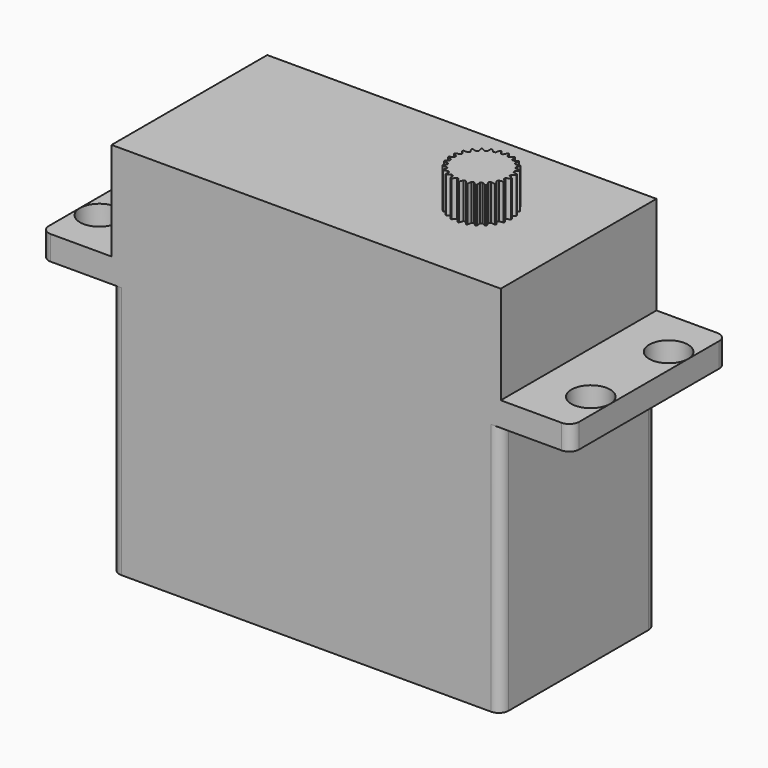
from build123d import *

# Parameters (mm, degrees)
F1_DEPTH  = 26
F3_DEPTH  = 2.5
F4_D      = 3.99
F4_DEPTH  = 5
F5_W      = 40
F5_H      = 20
F6_DEPTH  = 10.1
F7_R      = 2.5
F8_DEPTH  = 6
F10_DEPTH = 2
F13_DEPTH = 3.7


with BuildPart() as f1:
    # F0 (on Top) → F1 (new body)
    with BuildSketch(Plane.XY):
        with BuildLine():
            Line((-19, -10), (19, -10))
            ThreePointArc((19, -10), (19.707107, -9.707107), (20, -9))
            Line((20, -9), (20, 9))
            ThreePointArc((20, 9), (19.707107, 9.707107), (19, 10))
            Line((19, 10), (-19, 10))
            ThreePointArc((-19, 10), (-19.707107, 9.707107), (-20, 9))
            Line((-20, 9), (-20, -9))
            ThreePointArc((-20, -9), (-19.707107, -9.707107), (-19, -10))
        make_face()
    extrude(amount=F1_DEPTH)

    # F2 (on face) → F3 (join)
    with BuildSketch(Plane.XY.offset(26)):
        with BuildLine():
            Line((-26.25, -10), (26.25, -10))
            ThreePointArc((26.25, -10), (26.957107, -9.707107), (27.25, -9))
            Line((27.25, -9), (27.25, 9))
            ThreePointArc((27.25, 9), (26.957107, 9.707107), (26.25, 10))
            Line((26.25, 10), (-26.25, 10))
            ThreePointArc((-26.25, 10), (-26.957107, 9.707107), (-27.25, 9))
            Line((-27.25, 9), (-27.25, -9))
            ThreePointArc((-27.25, -9), (-26.957107, -9.707107), (-26.25, -10))
        make_face()
    extrude(amount=F3_DEPTH)

    # F4
    with Locations(Plane(origin=(0, 0, 26), x_dir=(1, 0, 0), z_dir=(0, 0, -1))):
        with Locations((-25.25, 5), (-25.25, -5), (25.25, 5), (25.25, -5)):
            Hole(F4_D / 2, depth=F4_DEPTH)

    # F5 (on face) → F6 (join)
    with BuildSketch(Plane.XY.offset(28.5)):
        Rectangle(F5_W, F5_H)
    extrude(amount=F6_DEPTH)


with BuildPart() as f8:
    # F7 (on face) → F8 (new body)
    with BuildSketch(Plane.XY.offset(38.6)):
        with Locations((10, 0)):
            Circle(F7_R)
    extrude(amount=F8_DEPTH)

    # F9 (on face) → F10 (join)
    with BuildSketch(Plane.XY.offset(44.6)):
        with BuildLine():
            ThreePointArc((-5.588466, 1.583393), (-6.591489, 1.114912), (-7, 0.086004))
            Line((-7, 0.086004), (-7, -0.085642))
            ThreePointArc((-7, -0.085642), (-6.591358, -1.114689), (-5.588083, -1.583054))
            Line((-5.588083, -1.583054), (4.973742, -2.204338))
            ThreePointArc((4.973742, -2.204338), (6.918625, -3.07757), (7.792354, -5.02223))
            Line((7.792354, -5.02223), (8.416607, -15.588466))
            ThreePointArc((8.416607, -15.588466), (8.885088, -16.591489), (9.913996, -17))
            Line((9.913996, -17), (10.085642, -17))
            ThreePointArc((10.085642, -17), (11.114689, -16.591358), (11.583054, -15.588083))
            Line((11.583054, -15.588083), (12.204338, -5.026258))
            ThreePointArc((12.204338, -5.026258), (13.07757, -3.081375), (15.02223, -2.207646))
            Line((15.02223, -2.207646), (25.588466, -1.583393))
            ThreePointArc((25.588466, -1.583393), (26.591489, -1.114912), (27, -0.086004))
            Line((27, -0.086004), (27, 0.085642))
            ThreePointArc((27, 0.085642), (26.591358, 1.114689), (25.588083, 1.583054))
            Line((25.588083, 1.583054), (15.026258, 2.204338))
            ThreePointArc((15.026258, 2.204338), (13.081375, 3.07757), (12.207646, 5.02223))
            Line((12.207646, 5.02223), (11.583393, 15.588466))
            ThreePointArc((11.583393, 15.588466), (11.114912, 16.591489), (10.086004, 17))
            Line((10.086004, 17), (9.914358, 17))
            ThreePointArc((9.914358, 17), (8.885311, 16.591358), (8.416946, 15.588083))
            Line((8.416946, 15.588083), (7.795662, 5.026258))
            ThreePointArc((7.795662, 5.026258), (6.92243, 3.081375), (4.97777, 2.207646))
            Line((4.97777, 2.207646), (-5.588466, 1.583393))
        make_face()
    extrude(amount=F10_DEPTH)


with BuildPart() as f13:
    # F12 (on face) → F13 (new body)
    with BuildSketch(Plane.XY.offset(38.6)):
        with BuildLine():
            Line((10.206556, 3.169527), (9.994776, 2.776655))
            ThreePointArc((9.994776, 2.776655), (9.890409, 2.774673), (9.786192, 2.768733))
            Line((9.786192, 2.768733), (9.54622, 3.144554))
            ThreePointArc((9.54622, 3.144554), (9.482152, 3.134663), (9.418302, 3.123456))
            Line((9.418302, 3.123456), (9.310879, 2.690258))
            ThreePointArc((9.310879, 2.690258), (9.210283, 2.662384), (9.110818, 2.630712))
            Line((9.110818, 2.630712), (8.784922, 2.935048))
            ThreePointArc((8.784922, 2.935048), (8.725327, 2.909535), (8.66627, 2.882801))
            Line((8.66627, 2.882801), (8.669954, 2.436498))
            ThreePointArc((8.669954, 2.436498), (8.57945, 2.384482), (8.490986, 2.32907))
            Line((8.490986, 2.32907), (8.099644, 2.542797))
            ThreePointArc((8.099644, 2.542797), (8.048266, 2.503265), (7.997713, 2.462683))
            Line((7.997713, 2.462683), (8.112272, 2.031318))
            ThreePointArc((8.112272, 2.031318), (8.037547, 1.95843), (7.965643, 1.882758))
            Line((7.965643, 1.882758), (7.533443, 1.992447))
            ThreePointArc((7.533443, 1.992447), (7.493511, 1.94138), (7.454638, 1.889502))
            Line((7.454638, 1.889502), (7.672874, 1.500178))
            ThreePointArc((7.672874, 1.500178), (7.618624, 1.410996), (7.567798, 1.31982))
            Line((7.567798, 1.31982), (7.121898, 1.31858))
            ThreePointArc((7.121898, 1.31858), (7.09592, 1.259186), (7.07117, 1.19927))
            Line((7.07117, 1.19927), (7.379371, 0.876451))
            ThreePointArc((7.379371, 0.876451), (7.349004, 0.77658), (7.322449, 0.675628))
            Line((7.322449, 0.675628), (6.890866, 0.563536))
            ThreePointArc((6.890866, 0.563536), (6.880475, 0.499547), (6.871403, 0.435359))
            Line((6.871403, 0.435359), (7.250203, 0.199328))
            ThreePointArc((7.250203, 0.199328), (7.245627, 0.095043), (7.245012, -0.009342))
            Line((7.245012, -0.009342), (6.854864, -0.225243))
            ThreePointArc((6.854864, -0.225243), (6.860713, -0.289805), (6.867889, -0.354233))
            Line((6.867889, -0.354233), (7.293486, -0.488644))
            ThreePointArc((7.293486, -0.488644), (7.314989, -0.590792), (7.340353, -0.69205))
            Line((7.340353, -0.69205), (7.016155, -0.998193))
            ThreePointArc((7.016155, -0.998193), (7.037875, -1.059272), (7.060848, -1.119892))
            Line((7.060848, -1.119892), (7.506502, -1.144239))
            ThreePointArc((7.506502, -1.144239), (7.552732, -1.237829), (7.602481, -1.329598))
            Line((7.602481, -1.329598), (7.364603, -1.706749))
            ThreePointArc((7.364603, -1.706749), (7.400831, -1.760507), (7.438158, -1.813509))
            Line((7.438158, -1.813509), (7.875865, -1.726261))
            ThreePointArc((7.875865, -1.726261), (7.943918, -1.805415), (8.014926, -1.881929))
            Line((8.014926, -1.881929), (7.878314, -2.306388))
            ThreePointArc((7.878314, -2.306388), (7.926773, -2.349448), (7.976109, -2.391502))
            Line((7.976109, -2.391502), (8.378367, -2.198142))
            ThreePointArc((8.378367, -2.198142), (8.463966, -2.257885), (8.551772, -2.314336))
            Line((8.551772, -2.314336), (8.525011, -2.759434))
            ThreePointArc((8.525011, -2.759434), (8.582656, -2.78909), (8.6409, -2.817553))
            Line((8.6409, -2.817553), (8.982434, -2.530231))
            ThreePointArc((8.982434, -2.530231), (9.080201, -2.566809), (9.179287, -2.59965))
            Line((9.179287, -2.59965), (9.264058, -3.03742))
            ThreePointArc((9.264058, -3.03742), (9.327268, -3.051808), (9.39076, -3.064893))
            Line((9.39076, -3.064893), (9.65011, -2.701661))
            ThreePointArc((9.65011, -2.701661), (9.753903, -2.712776), (9.858042, -2.719944))
            Line((9.858042, -2.719944), (10.04902, -3.122878))
            ThreePointArc((10.04902, -3.122878), (10.113821, -3.121095), (10.178573, -3.117979))
            Line((10.178573, -3.117979), (10.339443, -2.701661))
            ThreePointArc((10.339443, -2.701661), (10.442739, -2.686615), (10.54539, -2.667659))
            Line((10.54539, -2.667659), (10.830572, -3.01044))
            ThreePointArc((10.830572, -3.01044), (10.892895, -2.992598), (10.954837, -2.973476))
            Line((10.954837, -2.973476), (11.007119, -2.530231))
            ThreePointArc((11.007119, -2.530231), (11.103428, -2.489969), (11.19814, -2.44608))
            Line((11.19814, -2.44608), (11.559609, -2.70717))
            ThreePointArc((11.559609, -2.70717), (11.615536, -2.674389), (11.670777, -2.640464))
            Line((11.670777, -2.640464), (11.611186, -2.198142))
            ThreePointArc((11.611186, -2.198142), (11.694456, -2.135194), (11.775278, -2.06913))
            Line((11.775278, -2.06913), (12.190322, -2.232124))
            ThreePointArc((12.190322, -2.232124), (12.236339, -2.186464), (12.281408, -2.139867))
            Line((12.281408, -2.139867), (12.113688, -1.726261))
            ThreePointArc((12.113688, -1.726261), (12.178687, -1.644582), (12.240541, -1.560495))
            Line((12.240541, -1.560495), (12.68308, -1.61515))
            ThreePointArc((12.68308, -1.61515), (12.716297, -1.559481), (12.748361, -1.50314))
            Line((12.748361, -1.50314), (12.483051, -1.144239))
            ThreePointArc((12.483051, -1.144239), (12.525696, -1.048961), (12.564694, -0.952133))
            Line((12.564694, -0.952133), (13.006922, -0.895016))
            ThreePointArc((13.006922, -0.895016), (13.025251, -0.832835), (13.042297, -0.77029))
            Line((13.042297, -0.77029), (12.696066, -0.488644))
            ThreePointArc((12.696066, -0.488644), (12.713677, -0.385754), (12.727369, -0.28227))
            Line((12.727369, -0.28227), (13.1415, -0.11697))
            ThreePointArc((13.1415, -0.11697), (13.14379, -0.052184), (13.144745, 0.012635))
            Line((13.144745, 0.012635), (12.73935, 0.199328))
            ThreePointArc((12.73935, 0.199328), (12.730819, 0.303366), (12.718346, 0.407004))
            Line((12.718346, 0.407004), (13.078358, 0.670101))
            ThreePointArc((13.078358, 0.670101), (13.064464, 0.73342), (13.049269, 0.796441))
            Line((13.049269, 0.796441), (12.610182, 0.876451))
            ThreePointArc((12.610182, 0.876451), (12.576046, 0.975098), (12.538191, 1.072379))
            Line((12.538191, 1.072379), (12.821463, 1.416741))
            ThreePointArc((12.821463, 1.416741), (12.792258, 1.474616), (12.761869, 1.531878))
            Line((12.761869, 1.531878), (12.316678, 1.500178))
            ThreePointArc((12.316678, 1.500178), (12.259082, 1.587237), (12.198224, 1.672047))
            Line((12.198224, 1.672047), (12.386957, 2.076038))
            ThreePointArc((12.386957, 2.076038), (12.344277, 2.124832), (12.300602, 2.172737))
            Line((12.300602, 2.172737), (11.877281, 2.031318))
            ThreePointArc((11.877281, 2.031318), (11.799844, 2.101318), (11.719806, 2.168329))
            Line((11.719806, 2.168329), (11.802142, 2.606564))
            ThreePointArc((11.802142, 2.606564), (11.748668, 2.64321), (11.694451, 2.678749))
            Line((11.694451, 2.678749), (11.319599, 2.436498))
            ThreePointArc((11.319599, 2.436498), (11.227187, 2.485041), (11.132998, 2.530042))
            Line((11.132998, 2.530042), (11.103763, 2.974984))
            ThreePointArc((11.103763, 2.974984), (11.042855, 2.997182), (10.981503, 3.018121))
            Line((10.981503, 3.018121), (10.678673, 2.690258))
            ThreePointArc((10.678673, 2.690258), (10.577092, 2.714294), (10.474672, 2.734458))
            Line((10.474672, 2.734458), (10.335702, 3.158151))
            ThreePointArc((10.335702, 3.158151), (10.271187, 3.164504), (10.206556, 3.169527))
        make_face()
    extrude(amount=F13_DEPTH)


solid = Compound([f1.part, f13.part])
